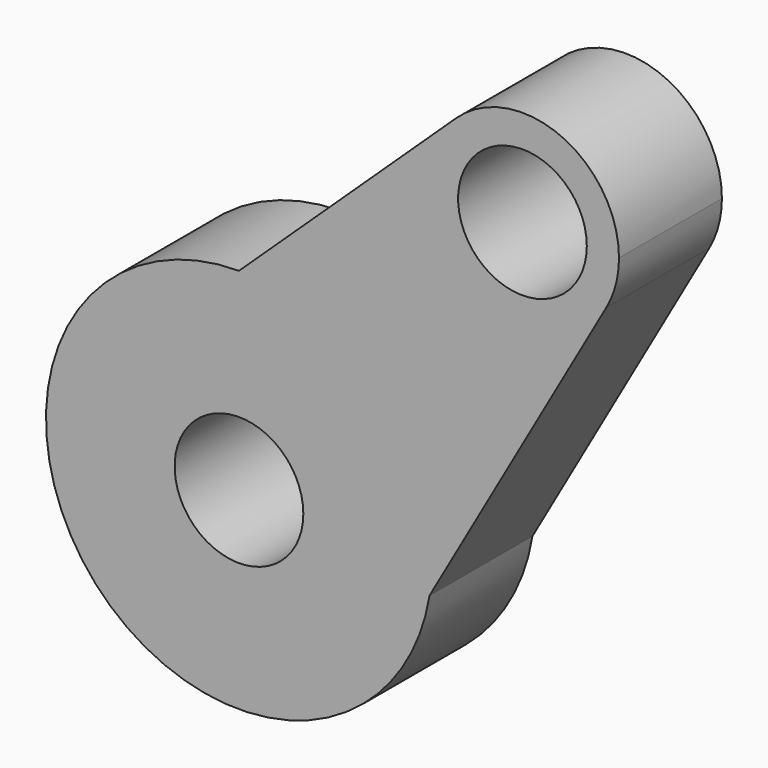
from build123d import *

# Parameters (mm, degrees)
F0_R     = 12.7
F1_DEPTH = 25.4


with BuildPart() as f1:
    # F0 (on Front) → F1 (new body)
    with BuildSketch(Plane.XZ):
        with BuildLine():
            ThreePointArc((37.607153, -6.108355), (37.976588, -3.064103), (38.1, 0))
            ThreePointArc((38.1, 0), (26.940768, 26.940768), (0, 38.1))
            ThreePointArc((0, 38.1), (-35.802072, -13.031564), (24.49118, -29.185477))
            Line((24.49118, -29.185477), (37.607153, -6.108355))
        make_face()
        Circle(F0_R, mode=Mode.SUBTRACT)
        with BuildLine():
            ThreePointArc((0, 38.1), (26.940768, 26.940768), (38.1, 0))
            ThreePointArc((38.1, 0), (37.976588, -3.064103), (37.607153, -6.108355))
            Line((37.607153, -6.108355), (72.515102, 55.311028))
            ThreePointArc((72.515102, 55.311028), (65.534173, 48.258733), (55.953582, 45.674062))
            Line((55.953582, 45.674062), (55.952777, 45.674062))
            ThreePointArc((55.952777, 45.674062), (38.250123, 57.688134), (42.875991, 78.576486))
            Line((42.875991, 78.576486), (0, 38.1))
        make_face()
        with BuildLine():
            ThreePointArc((24.49118, -29.185477), (33.123846, -18.826068), (37.607153, -6.108355))
            Line((37.607153, -6.108355), (24.49118, -29.185477))
        make_face()
        with BuildLine():
            ThreePointArc((75.003179, 64.724062), (63.495793, 82.217246), (42.875991, 78.576486))
            ThreePointArc((42.875991, 78.576486), (38.250123, 57.688134), (55.952777, 45.674062))
            Line((55.952777, 45.674062), (55.953582, 45.674062))
            ThreePointArc((55.953582, 45.674062), (65.534173, 48.258733), (72.515102, 55.311028))
            ThreePointArc((72.515102, 55.311028), (74.370659, 59.855907), (75.003179, 64.724062))
        make_face()
        with Locations((55.953179, 64.724062)):
            Circle(F0_R, mode=Mode.SUBTRACT)
        with BuildLine():
            ThreePointArc((0, 38.1), (26.940768, 26.940768), (38.1, 0))
            ThreePointArc((38.1, 0), (37.976588, -3.064103), (37.607153, -6.108355))
            Line((37.607153, -6.108355), (72.515102, 55.311028))
            ThreePointArc((72.515102, 55.311028), (65.534173, 48.258733), (55.953582, 45.674062))
            Line((55.953582, 45.674062), (55.952777, 45.674062))
            ThreePointArc((55.952777, 45.674062), (38.250123, 57.688134), (42.875991, 78.576486))
            Line((42.875991, 78.576486), (0, 38.1))
        make_face()
        with BuildLine():
            ThreePointArc((37.607153, -6.108355), (37.976588, -3.064103), (38.1, 0))
            ThreePointArc((38.1, 0), (26.940768, 26.940768), (0, 38.1))
            ThreePointArc((0, 38.1), (-35.802072, -13.031564), (24.49118, -29.185477))
            Line((24.49118, -29.185477), (37.607153, -6.108355))
        make_face()
        Circle(F0_R, mode=Mode.SUBTRACT)
        with BuildLine():
            ThreePointArc((75.003179, 64.724062), (63.495793, 82.217246), (42.875991, 78.576486))
            ThreePointArc((42.875991, 78.576486), (38.250123, 57.688134), (55.952777, 45.674062))
            Line((55.952777, 45.674062), (55.953582, 45.674062))
            ThreePointArc((55.953582, 45.674062), (65.534173, 48.258733), (72.515102, 55.311028))
            ThreePointArc((72.515102, 55.311028), (74.370659, 59.855907), (75.003179, 64.724062))
        make_face()
        with Locations((55.953179, 64.724062)):
            Circle(F0_R, mode=Mode.SUBTRACT)
    extrude(amount=F1_DEPTH)


solid = f1.part
